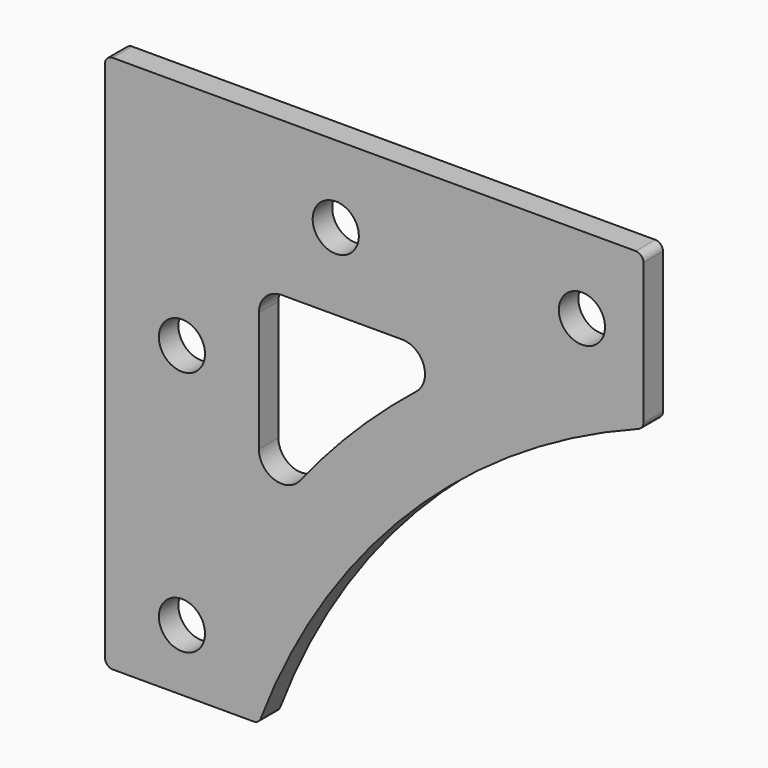
from build123d import *

# Parameters (mm, degrees)
SKETCH_R    = 3
PAD_DEPTH   = 3.175
FILLET_R    = 3
FILLET001_R = 1


with BuildPart() as part:
    # Sketch → Pad (new body)
    with BuildSketch(Plane.XZ):
        with BuildLine():
            Line((0, 0), (20, 0))
            ThreePointArc((70, 50), (39.553951, 30.446049), (20, 0))
            Line((70, 50), (70, 70))
            Line((70, 70), (0, 70))
            Line((0, 70), (0, 0))
        make_face()
        with Locations((10, 40)):
            Circle(SKETCH_R, mode=Mode.SUBTRACT)
        with Locations((10, 8)):
            Circle(SKETCH_R, mode=Mode.SUBTRACT)
        with Locations((30, 60)):
            Circle(SKETCH_R, mode=Mode.SUBTRACT)
        with Locations((62, 60)):
            Circle(SKETCH_R, mode=Mode.SUBTRACT)
        with BuildLine():
            Line((47.893188, 50), (20, 50))
            Line((20, 50), (20, 22.106812))
            ThreePointArc((47.893188, 50), (32.482884, 37.517116), (20, 22.106812))
        make_face(mode=Mode.SUBTRACT)
    extrude(amount=PAD_DEPTH)

    # Fillet
    fillet_edges = [part.edges().sort_by_distance(p)[0] for p in [
        (20, -1.5875, 22.106812),
        (47.893188, -1.5875, 50),
        (20, -1.5875, 50),
    ]]
    fillet(fillet_edges, radius=FILLET_R)

    # Fillet001
    fillet001_edges = [part.edges().sort_by_distance(p)[0] for p in [
        (70, -1.5875, 50),
        (70, -1.5875, 70),
        (20, -1.5875, 0),
        (0, -1.5875, 0),
        (0, -1.5875, 70),
    ]]
    fillet(fillet001_edges, radius=FILLET001_R)


solid = part.part
